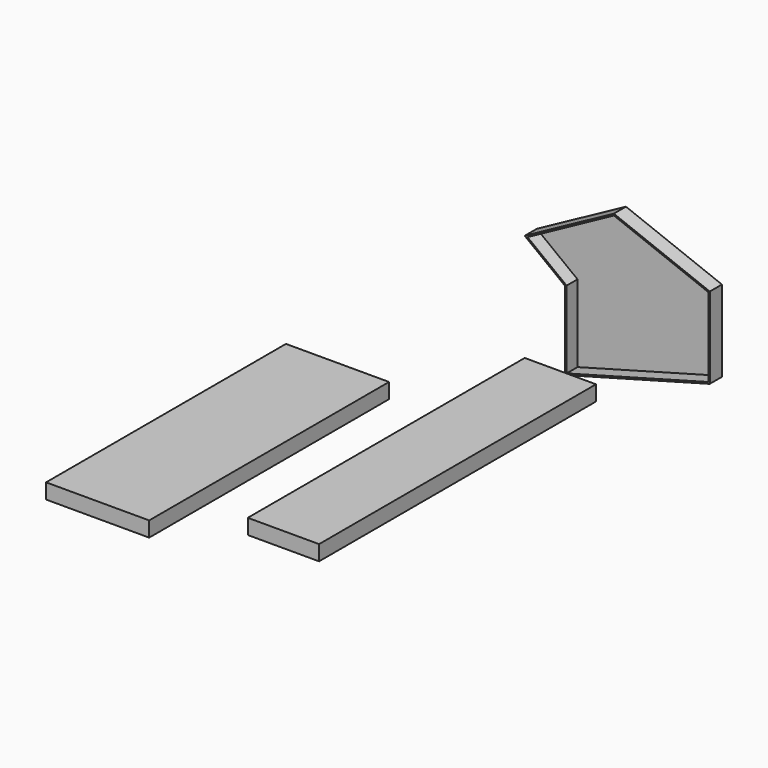
from build123d import *

# Parameters (mm, degrees)
F1_DEPTH = 25
F2_W     = 117.4689643085
F2_H     = 570.3954398632
F3_DEPTH = 25
F2_W_2   = 169.8603928089
F2_H_2   = 494.0543472767
F4_T     = -2.5
F5_T     = -2.5


with BuildPart() as f1:
    # F0 (on Front) → F1 (new body)
    with BuildSketch(Plane.XZ):
        Polygon((0, 18.6064355075), (-238.432765007, -50.8100539446), (-238.432765007, -180.191218853), (0, -115.3946816921), align=None)
        Polygon((-304.9520864942, 0.2412221735), (-238.432765007, -50.8100539446), (0, 18.6064355075), (-158.1051498652, 80.1252052188), align=None)
    extrude(amount=F1_DEPTH)

    # F5
    f5_openings = [f1.faces().sort_by_distance(p)[0] for p in [
        (-136.568019, -25, -45.411707),
    ]]
    offset(amount=F5_T, openings=f5_openings, kind=Kind.INTERSECTION)


with BuildPart() as f3:
    # F2 (on Top) → F3 (new body)
    with BuildSketch(Plane.XY):
        with Locations((-3.8729775697, -613.1078749895)):
            Rectangle(F2_W, F2_H)
    extrude(amount=F3_DEPTH)

    # F4
    f4_openings = [f3.faces().sort_by_distance(p)[0] for p in [
        (-3.872978, -613.107875, 0),
    ]]
    offset(amount=F4_T, openings=f4_openings)


with BuildPart() as f3b:
    # F2 (on Top) → F3, piece 2 (new body)
    with BuildSketch(Plane.XY):
        with Locations((-242.0475929976, -736.234292388)):
            Rectangle(F2_W_2, F2_H_2)
    extrude(amount=F3_DEPTH)


solid = Compound([f1.part, f3.part, f3b.part])
